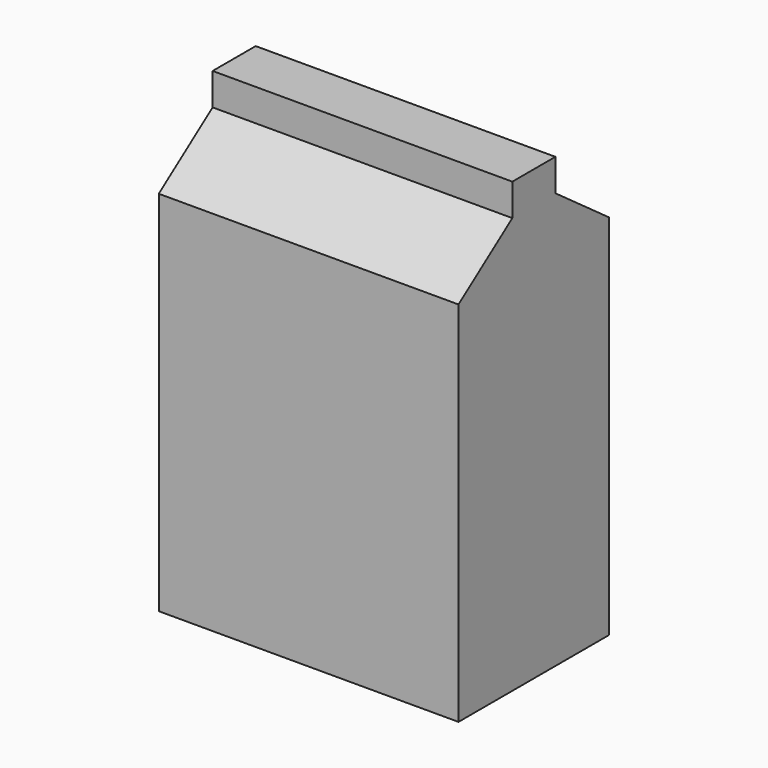
from build123d import *

# Parameters (mm, degrees)
F0_W     = 36.725904
F0_H     = 71.635686
F1_DEPTH = 29.21


with BuildPart() as f1:
    # F0 (on Right) → F1 (new body, symmetric)
    with BuildSketch(Plane.YZ):
        Rectangle(F0_W, F0_H)
        Polygon((-18.362952, 35.817843), (18.362952, 35.817843), (5.246557, 45.302007), (5.246557, 51.557515), (0, 51.557515), (-5.246557, 51.557515), (-5.246557, 45.302007), align=None)
    extrude(amount=F1_DEPTH, both=True)


solid = f1.part
